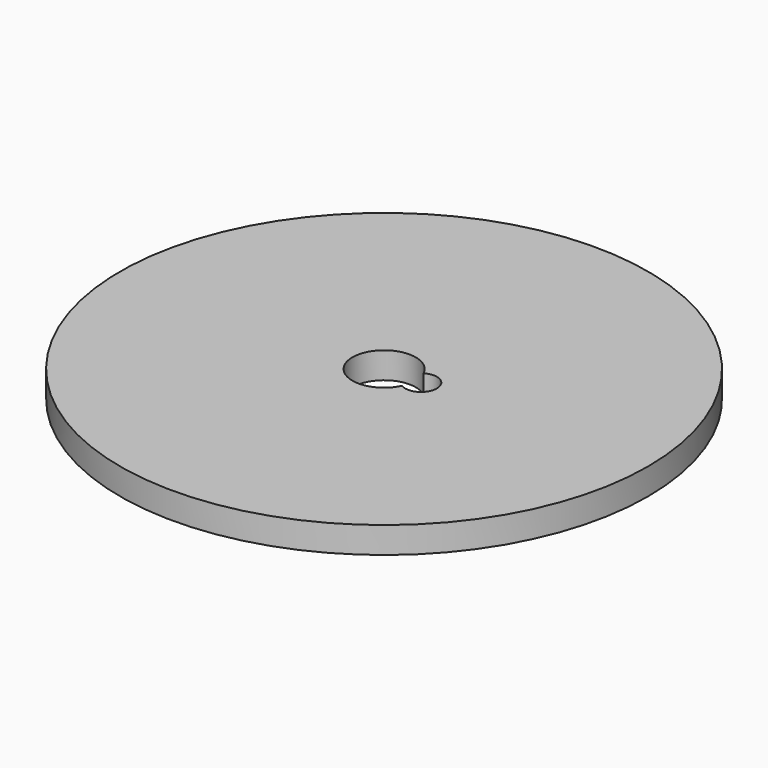
from build123d import *

# Parameters (mm, degrees)
F0_R     = 50
F1_DEPTH = 5
F3_DEPTH = 5.001


with BuildPart() as f1:
    # F0 (on Top) → F1 (new body)
    with BuildSketch(Plane.XY):
        Circle(F0_R)
    extrude(amount=F1_DEPTH)

    # F2 (on face) → F3 (cut, through all)
    with BuildSketch(Plane.XY.offset(5)):
        with BuildLine():
            ThreePointArc((5.428571, -2.555506), (10, 0), (5.428571, 2.555506))
            ThreePointArc((5.428571, 2.555506), (-6, 0), (5.428571, -2.555506))
        make_face()
    extrude(amount=-F3_DEPTH, mode=Mode.SUBTRACT)


solid = f1.part
